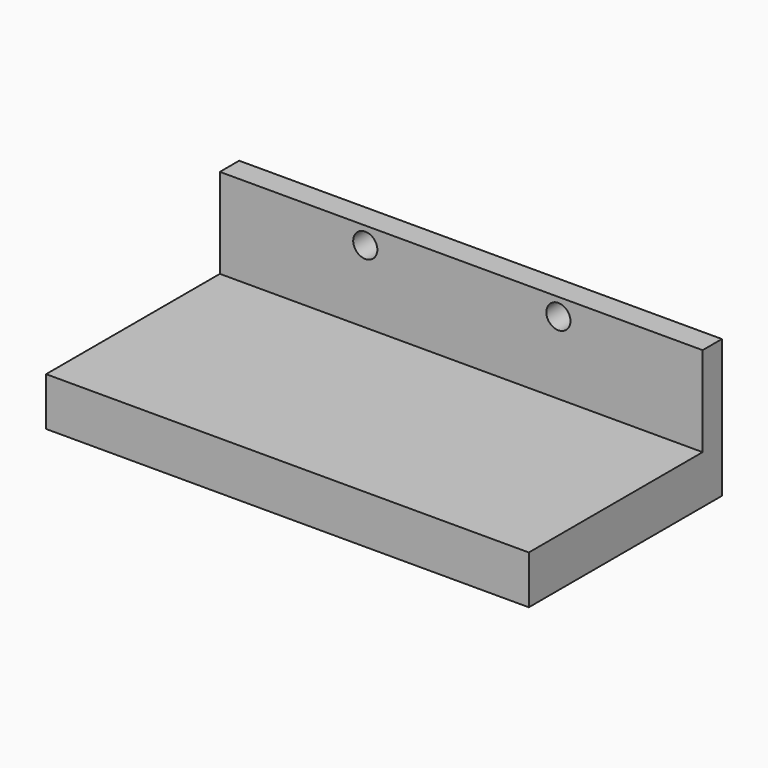
from build123d import *

# Parameters (mm, degrees)
F0_W     = 100
F0_H     = 50
F1_DEPTH = 10
F2_W     = 100
F2_H     = 5
F3_DEPTH = 18.6
F4_R     = 2.5
F5_DEPTH = 5.001


with BuildPart() as f1:
    # F0 (on Top) → F1 (new body)
    with BuildSketch(Plane.XY):
        with Locations((-0.122877, -25)):
            Rectangle(F0_W, F0_H)
    extrude(amount=F1_DEPTH)

    # F2 (on face) → F3 (join)
    with BuildSketch(Plane.XY.offset(10)):
        with Locations((-0.122877, -2.5)):
            Rectangle(F2_W, F2_H)
    extrude(amount=F3_DEPTH)

    # F4 (on face) → F5 (cut, through all)
    with BuildSketch(Plane.XZ.offset(5)):
        with Locations((20, 25)):
            Circle(F4_R)
        with Locations((-20, 25)):
            Circle(F4_R)
    extrude(amount=-F5_DEPTH, mode=Mode.SUBTRACT)


solid = f1.part
